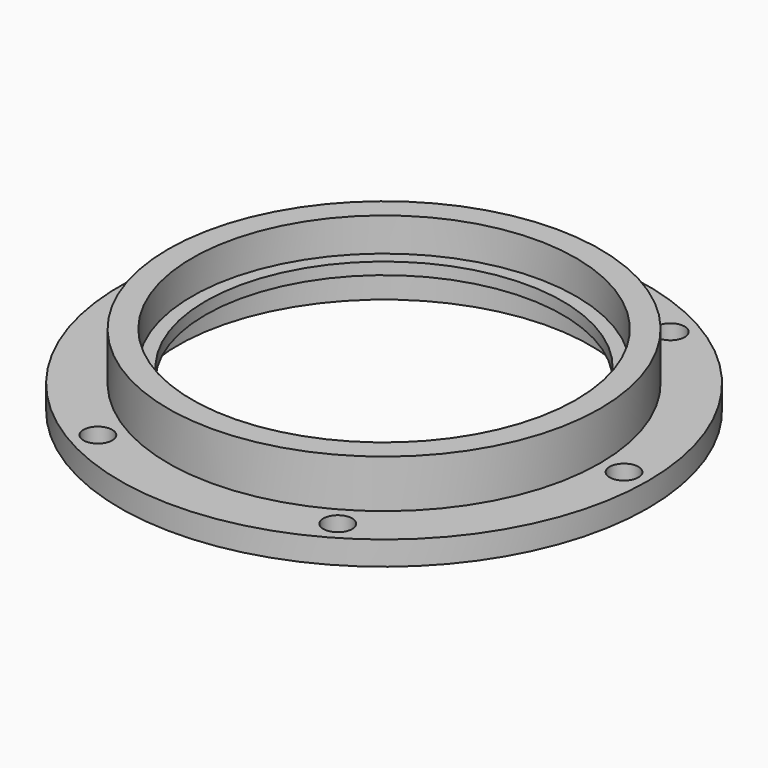
from build123d import *

# Parameters (mm, degrees)
SKETCH004_R        = 6
POCKET_DEPTH       = 639.959465
POLARPATTERN_COUNT = 6


with BuildPart() as part:
    # Sketch002 → Revolution003 (revolve)
    with BuildSketch(Plane.XZ):
        Polygon((90, 28), (110, 28), (110, 38), (90, 38), (90, 58), (80, 58), (80, 44), (74.400894, 44), (74.400894, 39), (86, 39), (86, 24), (90, 24), align=None)
    revolve(axis=Axis((0, 0, 0), (0, 0, 1)))

    # Sketch004 (on Face8 of Revolution003) → Pocket (cut, through all)
    with BuildSketch(Plane(origin=(0, 0, 38), x_dir=(-1, 0, 0), z_dir=(0, 0, 1))):
        with Locations((100, 0)):
            Circle(SKETCH004_R)
    pocket = extrude(amount=-POCKET_DEPTH, mode=Mode.SUBTRACT)

    # PolarPattern: Pocket ×6 about axis
    polarpattern_axis = Axis((0, 0, 38), (0, 0, 1))
    for i in range(1, POLARPATTERN_COUNT):
        add(pocket.rotate(polarpattern_axis, i * 360 / POLARPATTERN_COUNT), mode=Mode.SUBTRACT)


solid = part.part
